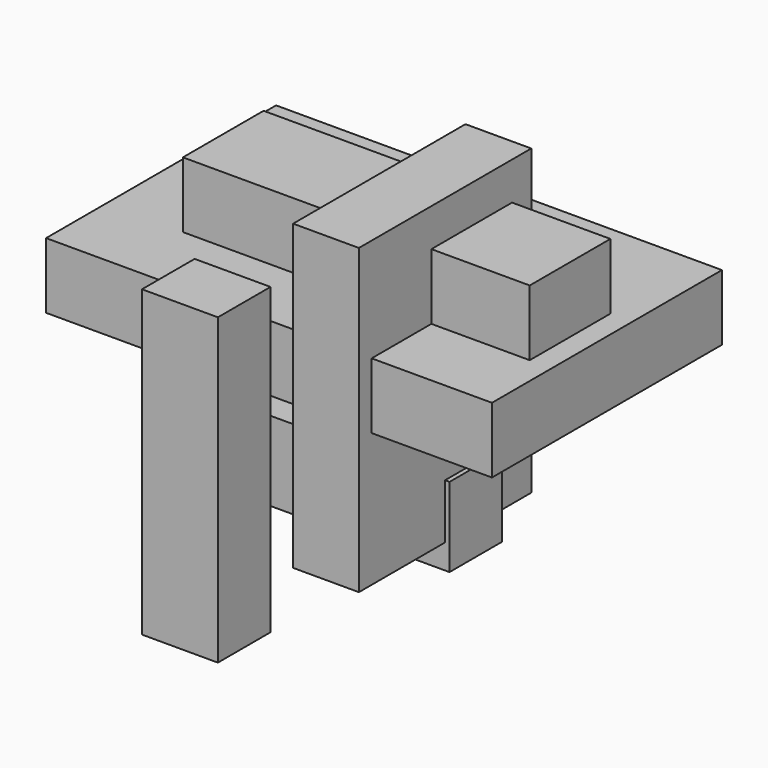
from build123d import *

# Parameters (mm, degrees)
F0_W     = 83.18023
F0_H     = 116.987984
F1_DEPTH = 25.4
F2_W     = 172.123075
F2_H     = 110.970385
F3_DEPTH = 25.4
F4_W     = 116.698637
F4_H     = 30.664335
F5_DEPTH = 25.4
F6_W     = 133.886017
F6_H     = 38.919249
F7_DEPTH = 25.4
F8_W     = 29.294722
F8_H     = 117.36656
F9_DEPTH = 25.4


with BuildPart() as f1:
    # F0 (on Right) → F1 (new body)
    with BuildSketch(Plane.YZ):
        with Locations((-25.369966, 6.922083)):
            Rectangle(F0_W, F0_H)
    extrude(amount=F1_DEPTH)

    # F2 (on Top) → F3 (join)
    with BuildSketch(Plane.XY):
        with Locations((-14.214217, -5.325139)):
            Rectangle(F2_W, F2_H)
    extrude(amount=F3_DEPTH)

    # F4 (on Front) → F5 (join)
    with BuildSketch(Plane.XZ):
        with Locations((-31.215682, -45.749648)):
            Rectangle(F4_W, F4_H)
    extrude(amount=F5_DEPTH)

    # F6 (on face) → F7 (join)
    with BuildSketch(Plane.XY.offset(25.4)):
        with Locations((-3.574874, -12.523699)):
            Rectangle(F6_W, F6_H)
    extrude(amount=F7_DEPTH)

    # F8 (on face) → F9 (join)
    with BuildSketch(Plane.XZ.offset(60.810331)):
        with Locations((-28.282989, -21.701511)):
            Rectangle(F8_W, F8_H)
    extrude(amount=F9_DEPTH)


solid = f1.part
